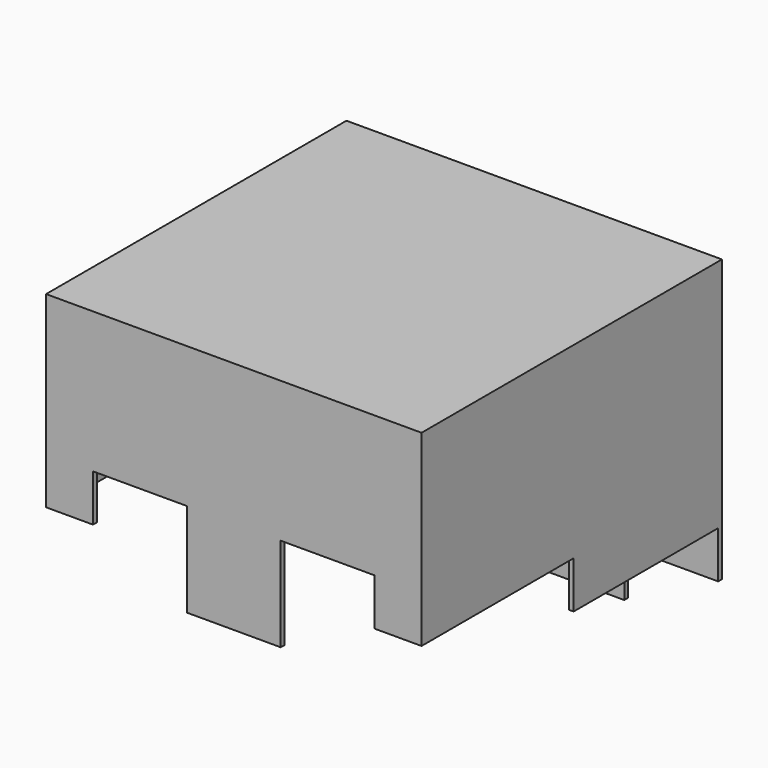
from build123d import *

# Parameters (mm, degrees)
F0_W      = 203.2
F0_H      = 203.2
F1_DEPTH  = 203.2
F2_W      = 198.12
F2_H      = 198.12
F3_DEPTH  = 200.66
F7_DEPTH  = 203.201
F10_DEPTH = 2.54
F13_DEPTH = 2.54


with BuildPart() as f1:
    # F0 (on Top) → F1 (new body)
    with BuildSketch(Plane.XY):
        Rectangle(F0_W, F0_H)
    extrude(amount=F1_DEPTH)

    # F2 (on Top) → F3 (cut)
    with BuildSketch(Plane.XY):
        Rectangle(F2_W, F2_H)
    extrude(amount=F3_DEPTH, mode=Mode.SUBTRACT)

    # F6 (on offset) → F7 (cut, through all)
    with BuildSketch(Plane.YZ.offset(101.6)):
        Polygon((1.27, 76.2), (1.27, 101.6), (-99.06, 101.6), (-99.06, 0), (99.06, 0), (99.06, 76.2), align=None)
    extrude(amount=-F7_DEPTH, mode=Mode.SUBTRACT)

    # F9 (on offset) → F10 (cut, through all)
    with BuildSketch(Plane(origin=(0, 101.6, 0), x_dir=(-1, 0, 0), z_dir=(0, 1, 0))):
        Polygon((-101.6, 0), (101.6, 0), (101.6, 25.4), (101.6, 50.8), (50.8, 50.8), (50.8, 25.4), (-50.8, 25.4), (-50.8, 50.8), (-101.6, 50.8), (-101.6, 25.4), align=None)
    extrude(amount=-F10_DEPTH, mode=Mode.SUBTRACT)

    # F12 (on offset) → F13 (cut, through all)
    with BuildSketch(Plane.XZ.offset(101.6)):
        Polygon((-101.6, 101.6), (-101.6, 0), (101.6, 0), (101.6, 101.6), (76.2, 101.6), (76.2, 127), (25.4, 127), (25.4, 101.6), (25.4, 76.2), (-25.4, 76.2), (-25.4, 101.6), (-25.4, 127), (-76.2, 127), (-76.2, 101.6), align=None)
    extrude(amount=-F13_DEPTH, mode=Mode.SUBTRACT)


solid = f1.part
